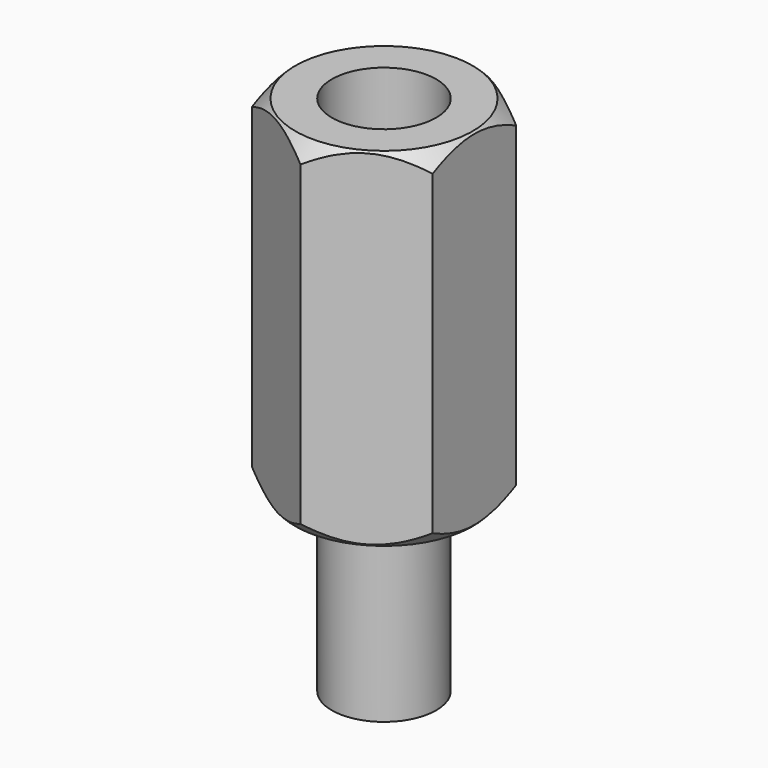
from build123d import *

# Parameters (mm, degrees)
PAD_DEPTH    = 5
SKETCH001_R  = 1.5
POCKET_DEPTH = 4
SKETCH004_R  = 1.5
PAD001_DEPTH = 5


with BuildPart() as part:
    # Sketch → Pad (new body, symmetric)
    with BuildSketch(Plane.XY):
        Polygon((2.6, 1.501111), (0, 3.002221), (-2.6, 1.501111), (-2.6, -1.501111), (0, -3.002221), (2.6, -1.501111), align=None)
    extrude(amount=PAD_DEPTH, both=True)

    # Sketch001 (on Face8 of Pad) → Pocket (cut)
    with BuildSketch(Plane.XY.offset(5)):
        Circle(SKETCH001_R)
    extrude(amount=-POCKET_DEPTH, mode=Mode.SUBTRACT)

    # Sketch004 (on Face4 of Pocket) → Pad001 (join)
    with BuildSketch(Plane(origin=(0, 0, -5), x_dir=(1, 0, 0), z_dir=(0, 0, -1))):
        Circle(SKETCH004_R)
    extrude(amount=PAD001_DEPTH)

    # Sketch005 → Groove (revolve, cut)
    with BuildSketch(Plane.YZ):
        Polygon((1.8, 5.75), (5.8, 5.75), (5.8, -5.75), (1.8, -5.75), (4.05, -3.5), (4.05, 3.5), align=None)
    revolve(axis=Axis((0, 0, 0), (0, 0, 1)), mode=Mode.SUBTRACT)


solid = part.part
